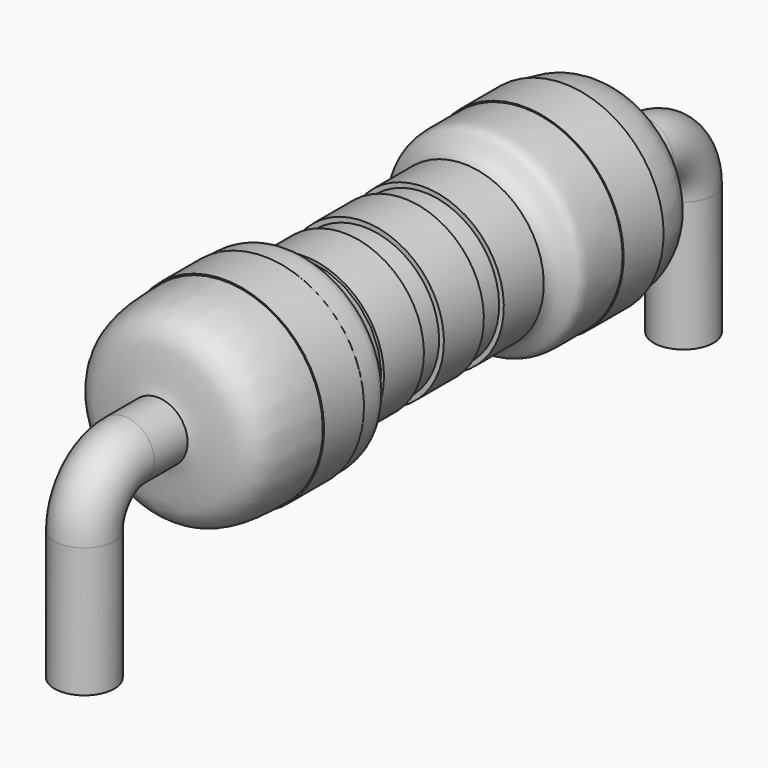
from build123d import *

# Parameters (mm, degrees)
SKETCH002_R  = 0.3
SKETCH003_R  = 1
PAD_DEPTH    = 0.25
SKETCH004_R  = 0.8
PAD001_DEPTH = 0.5
SKETCH005_R  = 0.8
PAD002_DEPTH = 0.25
SKETCH006_R  = 0.8
PAD003_DEPTH = 0.5
SKETCH007_R  = 1
PAD004_DEPTH = 0.25


with BuildPart() as body:
    # Sketch → Revolution (revolve)
    with BuildSketch(Plane(origin=(0, 0, 0), x_dir=(0, -1, 0), z_dir=(1, 0, 0))):
        with BuildLine():
            add(Edge.make_bspline(
                [(-0.769069, 0.754505), (-0.951665, 0.760534), (-1.141624, 0.77961), (-1.207908, 0.98313), (-1.364894, 0.994421), (-1.864947, 0.98477), (-2.775705, 0.990587), (-2.785126, 0.387148), (-2.848858, 0.260184), (-2.896467, 0.235343), (-2.966179, 0.25)],
                knots=[0, 0, 0, 0, 0.125, 0.25, 0.375, 0.5, 0.625, 0.75, 0.875, 1, 1, 1, 1], degree=3))
            Line((-2.966179, 0.25), (-2.966179, 0))
            Line((-2.966179, 0), (0, 0))
            Line((0, 0), (0, 0.75))
            add(Edge.make_bspline(
                [(-0.769069, 0.754505), (-0.446942, 0.755366), (0, 0.75)],
                knots=[0, 0, 0, 1, 1, 1], degree=2))
        make_face()
    revolution = revolve(axis=Axis((0, 0, 0), (0, 1, 0)))

    # Mirrored: Revolution across Sketch V_Axis
    add(revolution.mirror(Plane.XZ))


with BuildPart() as leads:
    # AdditivePipe: sweep along a path in Sketch001
    with BuildLine(Plane.YZ) as additivepipe_path:
        Line((0, 0), (-3.25, 0))
        ThreePointArc((-3.25, 0), (-3.603553, -0.146447), (-3.75, -0.5))
        Line((-3.75, -0.5), (-3.75, -1.8))
    # Sketch002 → AdditivePipe (sweep)
    with BuildSketch(Plane(origin=(0, 0, 0), x_dir=(0, 0, -1), z_dir=(0, -1, 0))):
        Circle(SKETCH002_R)
    additivepipe = sweep(path=additivepipe_path.line)

    # Mirrored001: AdditivePipe across XZ
    add(additivepipe.mirror(Plane.XZ))


with BuildPart() as body002:
    # Sketch003 → Pad (new body, symmetric)
    with BuildSketch(Plane(origin=(0, -1.75, 0), x_dir=(0, 0, -1), z_dir=(0, -1, 0))):
        Circle(SKETCH003_R)
    extrude(amount=PAD_DEPTH, both=True)


with BuildPart() as body003:
    # Sketch004 → Pad001 (new body)
    with BuildSketch(Plane(origin=(0, -0.5, 0), x_dir=(0, 0, -1), z_dir=(0, -1, 0))):
        Circle(SKETCH004_R)
    extrude(amount=PAD001_DEPTH)


with BuildPart() as body004:
    # Sketch005 → Pad002 (new body, symmetric)
    with BuildSketch(Plane(origin=(0, 0, 0), x_dir=(0, 0, -1), z_dir=(0, -1, 0))):
        Circle(SKETCH005_R)
    extrude(amount=PAD002_DEPTH, both=True)


with BuildPart() as body005:
    # Sketch006 → Pad003 (new body)
    with BuildSketch(Plane(origin=(0, 0.5, 0), x_dir=(0, 0, -1), z_dir=(0, -1, 0))):
        Circle(SKETCH006_R)
    extrude(amount=-PAD003_DEPTH)


with BuildPart() as body006:
    # Sketch007 → Pad004 (new body, symmetric)
    with BuildSketch(Plane(origin=(0, 2, 0), x_dir=(0, 0, -1), z_dir=(0, -1, 0))):
        Circle(SKETCH007_R)
    extrude(amount=PAD004_DEPTH, both=True)


solid = Compound([body.part, leads.part, body002.part, body003.part, body004.part, body005.part, body006.part])
